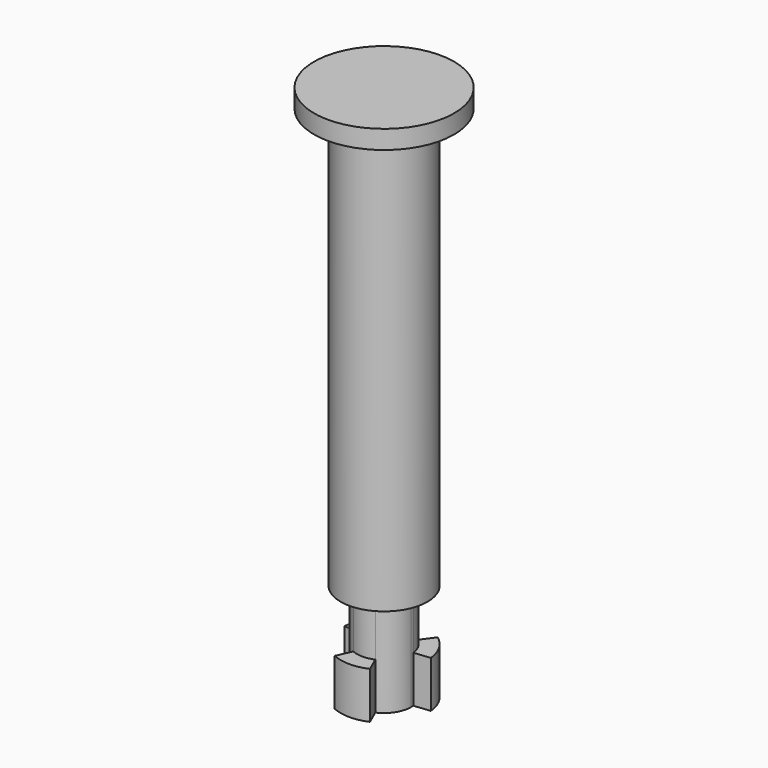
from build123d import *

# Parameters (mm, degrees)
F1_DEPTH = 5
F2_DEPTH = 10.5
F3_R     = 4.65
F3_R_2   = 2.9
F4_DEPTH = 45
F5_R     = 7.5
F5_R_2   = 4.65
F6_DEPTH = 2


with BuildPart() as f1:
    # F0 (on Top) → F1 (new body)
    with BuildSketch(Plane.XY):
        with BuildLine():
            Line((-1.704577, 2.346149), (-2.733201, 3.761929))
            ThreePointArc((-2.733201, 3.761929), (-4.027018, 2.325), (-4.624527, 0.486057))
            Line((-4.624527, 0.486057), (-2.884113, 0.303133))
            ThreePointArc((-2.884113, 0.303133), (-2.511474, 1.45), (-1.704577, 2.346149))
        make_face()
        with BuildLine():
            Line((2.733201, 3.761929), (1.704577, 2.346149))
            ThreePointArc((1.704577, 2.346149), (2.511474, 1.45), (2.884113, 0.303133))
            Line((2.884113, 0.303133), (4.624527, 0.486057))
            ThreePointArc((4.624527, 0.486057), (4.027018, 2.325), (2.733201, 3.761929))
        make_face()
        with BuildLine():
            ThreePointArc((1.179536, -2.649282), (0, -2.9), (-1.179536, -2.649282))
            Line((-1.179536, -2.649282), (-1.891325, -4.247986))
            ThreePointArc((-1.891325, -4.247986), (0, -4.65), (1.891325, -4.247986))
            Line((1.891325, -4.247986), (1.179536, -2.649282))
        make_face()
    extrude(amount=F1_DEPTH)


with BuildPart() as f2:
    # F0 (on Top) → F2 (new body)
    with BuildSketch(Plane.XY):
        with BuildLine():
            ThreePointArc((1.704577, 2.346149), (0, 2.9), (-1.704577, 2.346149))
            ThreePointArc((-1.704577, 2.346149), (-2.511474, 1.45), (-2.884113, 0.303133))
            ThreePointArc((-2.884113, 0.303133), (-2.511474, -1.45), (-1.179536, -2.649282))
            ThreePointArc((-1.179536, -2.649282), (0, -2.9), (1.179536, -2.649282))
            ThreePointArc((1.179536, -2.649282), (2.432145, -1.579453), (2.9, 0))
            ThreePointArc((2.9, 0), (2.896026, 0.151774), (2.884113, 0.303133))
            ThreePointArc((2.884113, 0.303133), (2.511474, 1.45), (1.704577, 2.346149))
        make_face()
    extrude(amount=F2_DEPTH)

    # F3 (on face) → F4 (join)
    with BuildSketch(Plane.XY.offset(10.5)):
        Circle(F3_R)
        Circle(F3_R_2, mode=Mode.SUBTRACT)
        Circle(F3_R_2)
    extrude(amount=F4_DEPTH)

    # F5 (on face) → F6 (join)
    with BuildSketch(Plane.XY.offset(55.5)):
        Circle(F5_R)
        Circle(F5_R_2, mode=Mode.SUBTRACT)
        Circle(F5_R_2)
    extrude(amount=F6_DEPTH)

    # F7 (on face) → F8 (revolve, cut)
    with BuildSketch(Plane(origin=(0, 0, 10.5), x_dir=(1, 0, 0), z_dir=(0, 0, -1))):
        with BuildLine():
            Line((-2.511474, 1.45), (-4.027018, 2.325))
            ThreePointArc((-4.027018, 2.325), (-3.706746, 1.129728), (-2.511474, 1.45))
        make_face()
    revolve(axis=Axis((-3.269246, -1.8875, 10.5), (0.866025, 0.5, 0)), mode=Mode.SUBTRACT)

    # F7 (on face) → F9 (revolve, cut)
    with BuildSketch(Plane(origin=(0, 0, 10.5), x_dir=(1, 0, 0), z_dir=(0, 0, -1))):
        with BuildLine():
            Line((2.511474, 1.45), (4.027018, 2.325))
            ThreePointArc((4.027018, 2.325), (2.831746, 2.645272), (2.511474, 1.45))
        make_face()
    revolve(axis=Axis((3.269246, -1.8875, 10.5), (0.866025, -0.5, 0)), mode=Mode.SUBTRACT)

    # F7 (on face) → F10 (revolve, cut)
    with BuildSketch(Plane(origin=(0, 0, 10.5), x_dir=(1, 0, 0), z_dir=(0, 0, -1))):
        with BuildLine():
            Line((0, -2.9), (0, -4.65))
            ThreePointArc((0, -4.65), (0.875, -3.775), (0, -2.9))
        make_face()
    revolve(axis=Axis((0, 3.775, 10.5), (0, 1, 0)), mode=Mode.SUBTRACT)


solid = Compound([f1.part, f2.part])
